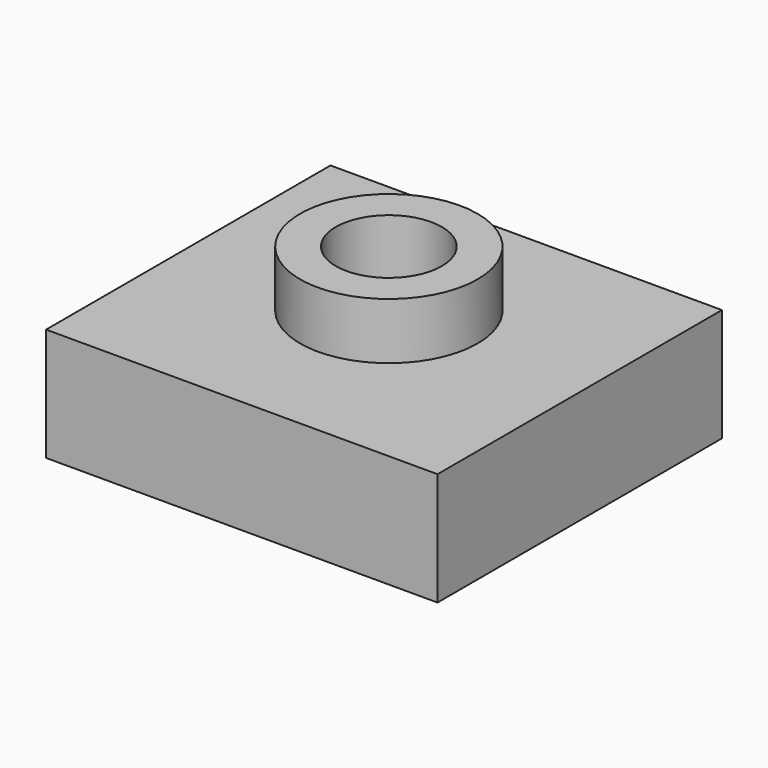
from build123d import *

# Parameters (mm, degrees)
F0_R     = 19.950599
F0_R_2   = 11.920368
F1_DEPTH = 38.1
F0_W     = 87.976367
F0_H     = 79.894547
F2_DEPTH = 25.4


with BuildPart() as f1:
    # F0 (on Top) → F1 (new body)
    with BuildSketch(Plane.XY):
        with Locations((4.849092, 2.193636)):
            Circle(F0_R)
        with Locations((4.849092, 2.193636)):
            Circle(F0_R_2, mode=Mode.SUBTRACT)
    extrude(amount=F1_DEPTH)

    # F0 (on Top) → F2 (join)
    with BuildSketch(Plane.XY):
        with Locations((6.35, -1.039089)):
            Rectangle(F0_W, F0_H)
        with Locations((4.849092, 2.193636)):
            Circle(F0_R, mode=Mode.SUBTRACT)
    extrude(amount=F2_DEPTH)


solid = f1.part
